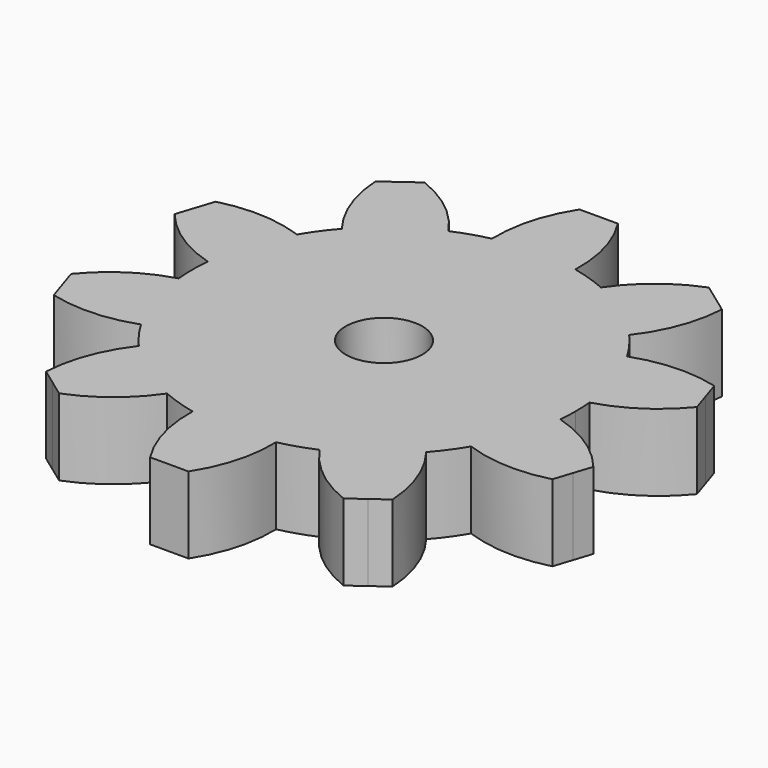
from build123d import *

# Parameters (mm, degrees)
F1_DEPTH = 20
F2_R     = 10
F3_DEPTH = 20


with BuildPart() as f1:
    # F0 (on Top) → F1 (new body)
    with BuildSketch(Plane.XY):
        with BuildLine():
            ThreePointArc((49.774727, -4.740946), (49.94365, -2.373147), (50, 0))
            ThreePointArc((50, 0), (49.94365, 2.373147), (49.774727, 4.740946))
            ThreePointArc((49.774727, 4.740946), (47.552826, 15.45085), (43.055258, 25.421345))
            ThreePointArc((43.055258, 25.421345), (40.45085, 29.389263), (37.481942, 33.092356))
            ThreePointArc((37.481942, 33.092356), (29.389263, 40.45085), (19.890144, 45.873546))
            ThreePointArc((19.890144, 45.873546), (15.45085, 47.552826), (10.872329, 48.803611))
            ThreePointArc((10.872329, 48.803611), (5.468978, 49.700003), (0, 50))
            ThreePointArc((0, 50), (-5.468978, 49.700003), (-10.872329, 48.803611))
            ThreePointArc((-10.872329, 48.803611), (-15.45085, 47.552826), (-19.890144, 45.873546))
            ThreePointArc((-19.890144, 45.873546), (-29.389263, 40.45085), (-37.481942, 33.092356))
            ThreePointArc((-37.481942, 33.092356), (-40.45085, 29.389263), (-43.055258, 25.421345))
            ThreePointArc((-43.055258, 25.421345), (-47.552826, 15.45085), (-49.774727, 4.740946))
            ThreePointArc((-49.774727, 4.740946), (-50, 0), (-49.774727, -4.740946))
            ThreePointArc((-49.774727, -4.740946), (-47.552826, -15.45085), (-43.055258, -25.421345))
            ThreePointArc((-43.055258, -25.421345), (-40.45085, -29.389263), (-37.481942, -33.092356))
            ThreePointArc((-37.481942, -33.092356), (-29.389263, -40.45085), (-19.890144, -45.873546))
            ThreePointArc((-19.890144, -45.873546), (-15.45085, -47.552826), (-10.872329, -48.803611))
            ThreePointArc((-10.872329, -48.803611), (0, -50), (10.872329, -48.803611))
            ThreePointArc((10.872329, -48.803611), (15.45085, -47.552826), (19.890144, -45.873546))
            ThreePointArc((19.890144, -45.873546), (29.389263, -40.45085), (37.481942, -33.092356))
            ThreePointArc((37.481942, -33.092356), (40.45085, -29.389263), (43.055258, -25.421345))
            ThreePointArc((43.055258, -25.421345), (47.552826, -15.45085), (49.774727, -4.740946))
        make_face()
        with BuildLine():
            ThreePointArc((43.055258, 25.421345), (47.552826, 15.45085), (49.774727, 4.740946))
            ThreePointArc((49.774727, 4.740946), (59.872276, 9.409519), (68.119041, 16.875907))
            Line((68.119041, 16.875907), (66.573956, 21.63119))
            Line((66.573956, 21.63119), (65.028871, 26.386472))
            ThreePointArc((65.028871, 26.386472), (53.968465, 27.57958), (43.055258, 25.421345))
        make_face()
        with BuildLine():
            ThreePointArc((68.119041, -16.875907), (59.872276, -9.409519), (49.774727, -4.740946))
            ThreePointArc((49.774727, -4.740946), (47.552826, -15.45085), (43.055258, -25.421345))
            ThreePointArc((43.055258, -25.421345), (53.968465, -27.57958), (65.028871, -26.386472))
            Line((65.028871, -26.386472), (66.573956, -21.63119))
            Line((66.573956, -21.63119), (68.119041, -16.875907))
        make_face()
        with BuildLine():
            ThreePointArc((19.890144, 45.873546), (29.389263, 40.45085), (37.481942, 33.092356))
            ThreePointArc((37.481942, 33.092356), (42.906913, 42.804502), (45.190053, 53.692263))
            Line((45.190053, 53.692263), (41.144968, 56.63119))
            Line((41.144968, 56.63119), (37.099883, 59.570116))
            ThreePointArc((37.099883, 59.570116), (27.450535, 54.034217), (19.890144, 45.873546))
        make_face()
        with BuildLine():
            ThreePointArc((45.190053, -53.692263), (42.906913, -42.804502), (37.481942, -33.092356))
            ThreePointArc((37.481942, -33.092356), (29.389263, -40.45085), (19.890144, -45.873546))
            ThreePointArc((19.890144, -45.873546), (27.450535, -54.034217), (37.099883, -59.570116))
            Line((37.099883, -59.570116), (41.144968, -56.63119))
            Line((41.144968, -56.63119), (45.190053, -53.692263))
        make_face()
        with BuildLine():
            ThreePointArc((0, 50), (5.468978, 49.700003), (10.872329, 48.803611))
            ThreePointArc((10.872329, 48.803611), (9.552567, 59.84962), (5, 70))
            Line((5, 70), (0, 70))
            Line((0, 70), (0, 50))
        make_face()
        with BuildLine():
            ThreePointArc((5, -70), (9.552567, -59.84962), (10.872329, -48.803611))
            ThreePointArc((10.872329, -48.803611), (0, -50), (-10.872329, -48.803611))
            ThreePointArc((-10.872329, -48.803611), (-9.552567, -59.84962), (-5, -70))
            Line((-5, -70), (0, -70))
            Line((0, -70), (5, -70))
        make_face()
        with BuildLine():
            ThreePointArc((-10.872329, 48.803611), (-5.468978, 49.700003), (0, 50))
            Line((0, 50), (0, 70))
            Line((0, 70), (-5, 70))
            ThreePointArc((-5, 70), (-9.552567, 59.84962), (-10.872329, 48.803611))
        make_face()
        with BuildLine():
            ThreePointArc((-37.099883, -59.570116), (-27.450535, -54.034217), (-19.890144, -45.873546))
            ThreePointArc((-19.890144, -45.873546), (-29.389263, -40.45085), (-37.481942, -33.092356))
            ThreePointArc((-37.481942, -33.092356), (-42.906913, -42.804502), (-45.190053, -53.692263))
            Line((-45.190053, -53.692263), (-41.144968, -56.63119))
            Line((-41.144968, -56.63119), (-37.099883, -59.570116))
        make_face()
        with BuildLine():
            ThreePointArc((-37.481942, 33.092356), (-29.389263, 40.45085), (-19.890144, 45.873546))
            ThreePointArc((-19.890144, 45.873546), (-27.450535, 54.034217), (-37.099883, 59.570116))
            Line((-37.099883, 59.570116), (-41.144968, 56.63119))
            Line((-41.144968, 56.63119), (-45.190053, 53.692263))
            ThreePointArc((-45.190053, 53.692263), (-42.906913, 42.804502), (-37.481942, 33.092356))
        make_face()
        with BuildLine():
            ThreePointArc((-65.028871, -26.386472), (-53.968465, -27.57958), (-43.055258, -25.421345))
            ThreePointArc((-43.055258, -25.421345), (-47.552826, -15.45085), (-49.774727, -4.740946))
            ThreePointArc((-49.774727, -4.740946), (-59.872276, -9.409519), (-68.119041, -16.875907))
            Line((-68.119041, -16.875907), (-66.573956, -21.63119))
            Line((-66.573956, -21.63119), (-65.028871, -26.386472))
        make_face()
        with BuildLine():
            ThreePointArc((-49.774727, 4.740946), (-47.552826, 15.45085), (-43.055258, 25.421345))
            ThreePointArc((-43.055258, 25.421345), (-53.968465, 27.57958), (-65.028871, 26.386472))
            Line((-65.028871, 26.386472), (-66.573956, 21.63119))
            Line((-66.573956, 21.63119), (-68.119041, 16.875907))
            ThreePointArc((-68.119041, 16.875907), (-59.872276, 9.409519), (-49.774727, 4.740946))
        make_face()
    extrude(amount=F1_DEPTH)

    # F2 (on face) → F3 (cut, through all)
    with BuildSketch(Plane.XY.offset(20)):
        Circle(F2_R)
    extrude(amount=-F3_DEPTH, mode=Mode.SUBTRACT)


solid = f1.part
